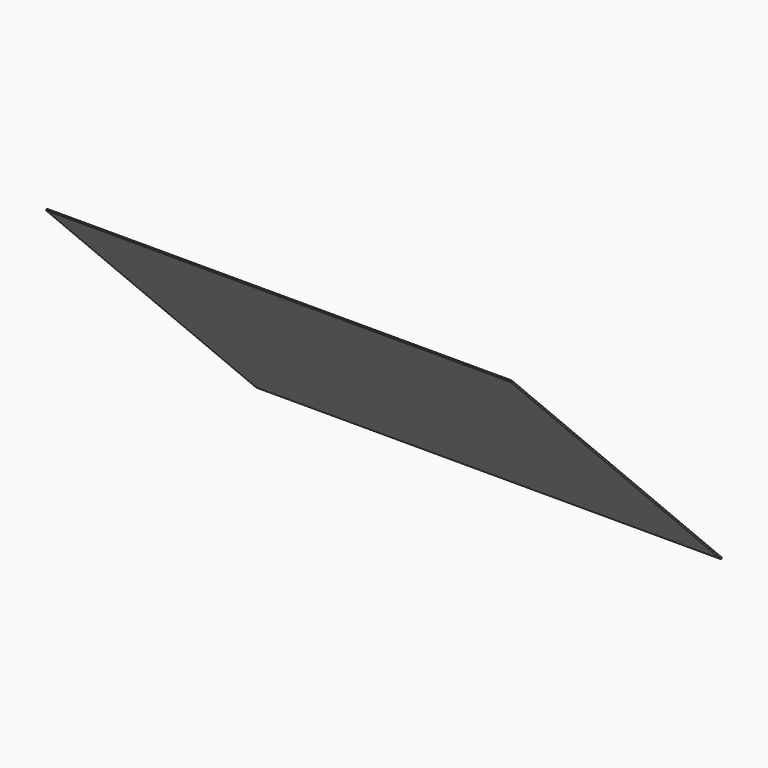
from build123d import *

# Parameters (mm, degrees)
F2_W     = 508
F2_H     = 406.4
F3_DEPTH = 1.6002


with BuildPart() as f3:
    # F2 (on face) → F3 (new body)
    with BuildSketch(Plane(origin=(0, 0, 0), x_dir=(-1, 0, 0), z_dir=(0, 0.707107, 0.707107))):
        with Locations((-254, 203.2)):
            Rectangle(F2_W, F2_H)
    extrude(amount=F3_DEPTH)


solid = f3.part
